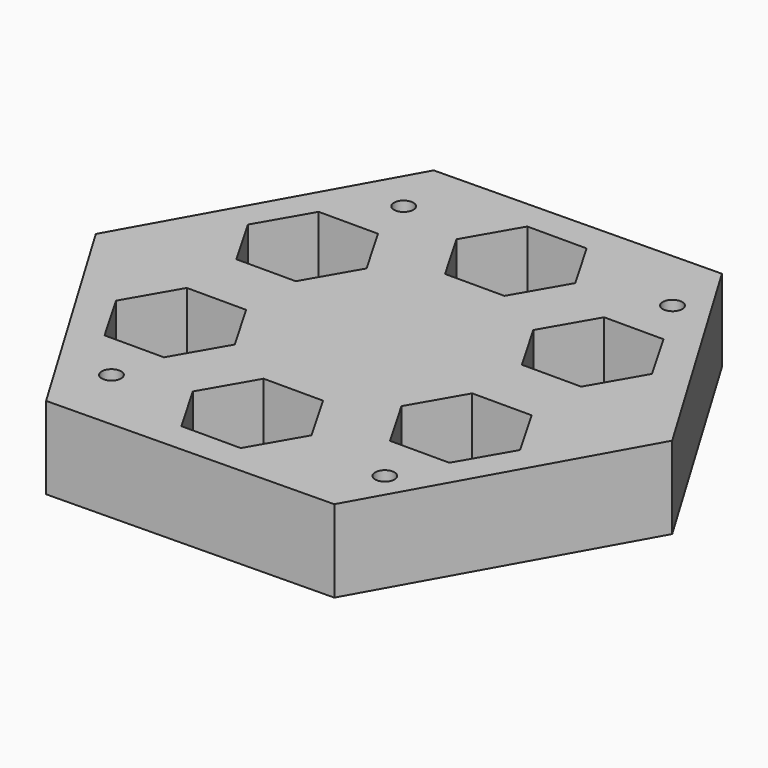
from build123d import *

# Parameters (mm, degrees)
F1_DEPTH = 25.4
F3_DEPTH = 20.32
F5_D     = 5.9944
F5_DEPTH = 5.08
F5_TIP   = 1.8008994473


with BuildPart() as f1:
    # F0 (on Top) → F1 (new body)
    with BuildSketch(Plane.XY):
        Polygon((45.0902102752, -75.5565545624), (87.979000811, 1.2709902791), (42.8887905359, 76.8275448415), (-45.0902102752, 75.5565545624), (-87.979000811, -1.2709902791), (-42.8887905359, -76.8275448415), align=None)
    extrude(amount=F1_DEPTH)

    # F2 (on face) → F3 (cut)
    with BuildSketch(Plane.XY.offset(25.4)):
        Polygon((-25.7429317854, 25.4460219294), (-34.9083673088, 41.3210219294), (-53.2392383556, 41.3210219294), (-62.404673879, 25.4460219294), (-53.2392383556, 9.5710219294), (-34.9083673088, 9.5710219294), align=None)
        Polygon((-9.1654355234, 35.0170438588), (9.1654355234, 35.0170438588), (18.3308710468, 50.8920438588), (9.1654355234, 66.7670438588), (-9.1654355234, 66.7670438588), (-18.3308710468, 50.8920438588), align=None)
        Polygon((25.7429317854, -25.4460219294), (34.9083673088, -41.3210219294), (53.2392383556, -41.3210219294), (62.404673879, -25.4460219294), (53.2392383556, -9.5710219294), (34.9083673088, -9.5710219294), align=None)
        Polygon((34.9083673088, 9.5710219294), (53.2392383556, 9.5710219294), (62.404673879, 25.4460219294), (53.2392383556, 41.3210219294), (34.9083673088, 41.3210219294), (25.7429317854, 25.4460219294), align=None)
        Polygon((-9.1654355234, -35.0170438588), (-18.3308710468, -50.8920438588), (-9.1654355234, -66.7670438588), (9.1654355234, -66.7670438588), (18.3308710468, -50.8920438588), (9.1654355234, -35.0170438588), align=None)
        Polygon((-34.9083673088, -9.5710219294), (-53.2392383556, -9.5710219294), (-62.404673879, -25.4460219294), (-53.2392383556, -41.3210219294), (-34.9083673088, -41.3210219294), (-25.7429317854, -25.4460219294), align=None)
    extrude(amount=-F3_DEPTH, mode=Mode.SUBTRACT)

    # F5
    with Locations(Plane.XY.offset(25.4)):
        with Locations((-39.0446968377, 56.39789626), (43.9692549407, 56.39789626), (-39.0446968377, -56.39789626), (45.3762710094, -56.39789626)):
            Hole(F5_D / 2, depth=F5_DEPTH)
            with Locations((0, 0, -(F5_DEPTH + F5_TIP / 2))):  # 118° drill point
                Cone(0, F5_D / 2, F5_TIP, mode=Mode.SUBTRACT)


solid = f1.part
